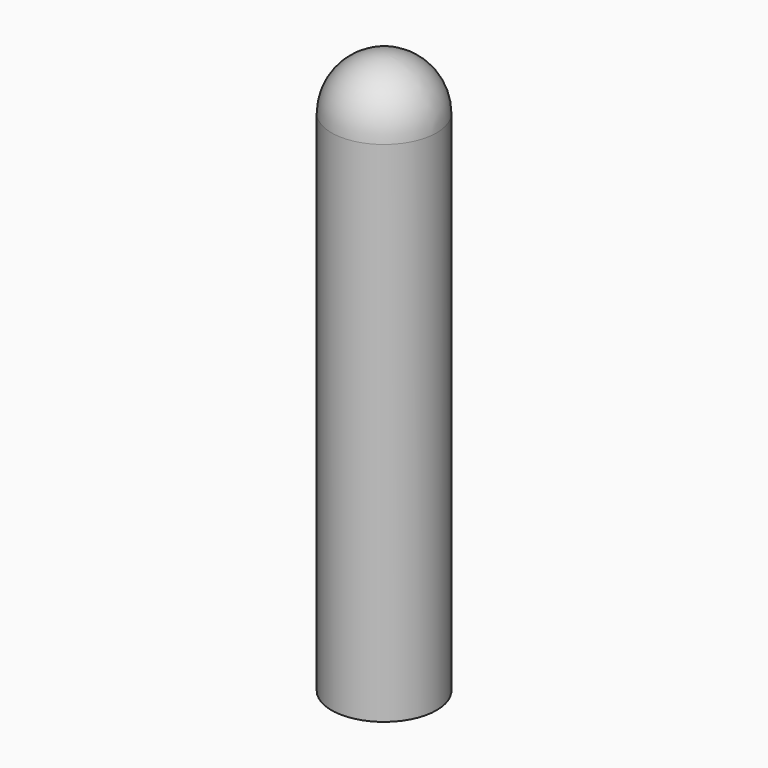
from build123d import *

# Parameters (mm, degrees)
F0_R     = 9.525
F1_DEPTH = 101.6
F2_R     = 4.7625
F3_DEPTH = 50.8
F4_R     = 9.525


with BuildPart() as f1:
    # F0 (on Top) → F1 (new body)
    with BuildSketch(Plane.XY):
        Circle(F0_R)
    extrude(amount=F1_DEPTH)

    # F2 (on face) → F3 (cut)
    with BuildSketch(Plane(origin=(0, 0, 0), x_dir=(1, 0, 0), z_dir=(0, 0, -1))):
        Circle(F2_R)
    extrude(amount=-F3_DEPTH, mode=Mode.SUBTRACT)

    # F4
    f4_edges = [f1.edges().sort_by_distance(p)[0] for p in [
        (-9.525, 0, 101.6),
    ]]
    fillet(f4_edges, radius=F4_R)


solid = f1.part
